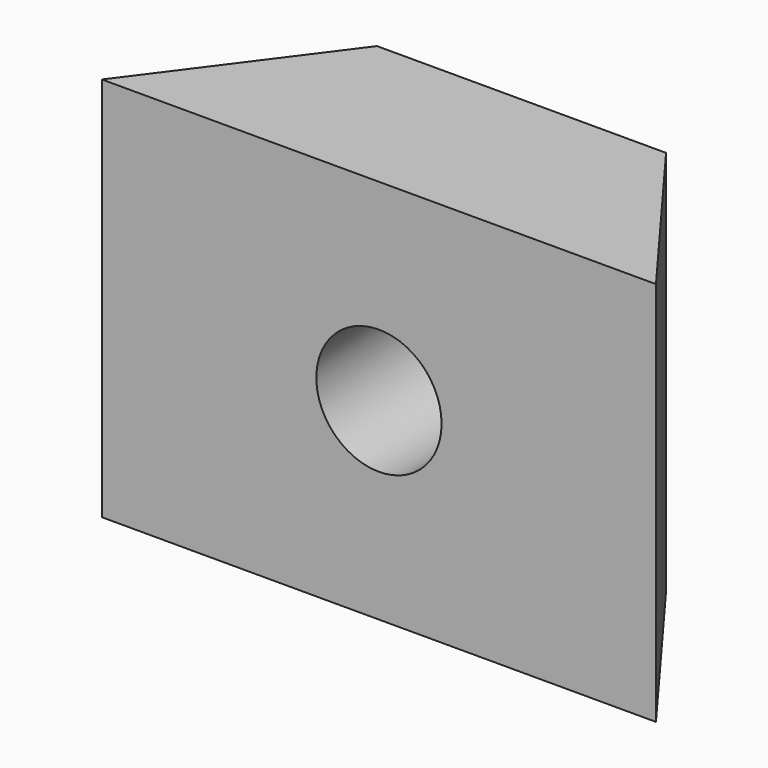
from build123d import *

# Parameters (mm, degrees)
F1_DEPTH = 8
F2_R     = 1.3
F3_DEPTH = 3.701


with BuildPart() as f1:
    # F0 (on Top) → F1 (new body)
    with BuildSketch(Plane.XY):
        Polygon((7.358148, 7.189363), (4.608148, 3.489363), (16.108148, 3.489363), (13.358148, 7.189363), align=None)
    extrude(amount=F1_DEPTH)

    # F2 (on face) → F3 (cut, through all)
    with BuildSketch(Plane.XZ.offset(-3.489363)):
        with Locations((10.358148, 4)):
            Circle(F2_R)
    extrude(amount=-F3_DEPTH, mode=Mode.SUBTRACT)


solid = f1.part
